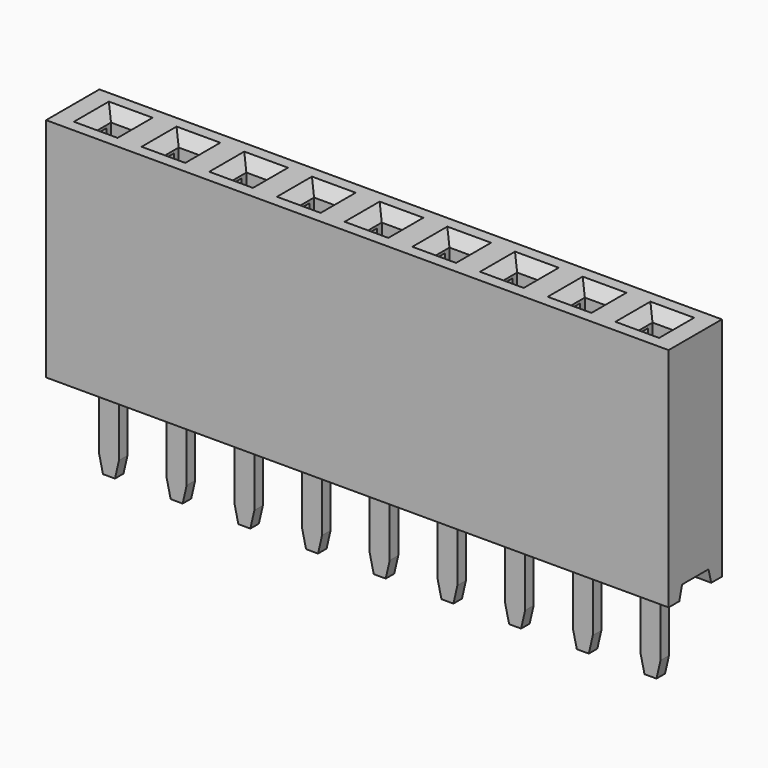
from build123d import *

# Parameters (mm, degrees)
SKETCH_W             = 3.04
SKETCH_H             = 2.5
PAD_DEPTH            = 8.5
SKETCH001_W          = 0.84
SKETCH001_H          = 0.84
POCKET_DEPTH         = 6.04
POCKET001_DEPTH      = 1.521
POCKET001_DEPTH_BACK = 1.521
SKETCH003_W          = 2
SKETCH003_H          = 0.4
POCKET002_DEPTH      = 8
CHAMFER_SIZE         = 0.4
ARRAY_X_COUNT        = 9
ARRAY_X_PITCH        = 2.54
PAD001_DEPTH         = 0.2
PAD001_DEPTH_BACK    = 0.2
ARRAY001_X_COUNT     = 9
ARRAY001_X_PITCH     = 2.54


with BuildPart() as fusion:
    # Sketch → Pad (new body)
    with BuildSketch(Plane.XY):
        Rectangle(SKETCH_W, SKETCH_H)
    extrude(amount=PAD_DEPTH)

    # Sketch001 → Pocket (cut)
    with BuildSketch(Plane.XY.offset(8.5)):
        Rectangle(SKETCH001_W, SKETCH001_H)
    extrude(amount=-POCKET_DEPTH, mode=Mode.SUBTRACT)

    # Sketch002 → Pocket001 (cut, two sides)
    with BuildSketch(Plane.YZ) as pocket001_sk:
        Polygon((-0.75, 0), (0.75, 0), (0.62, 0.5), (-0.62, 0.5), align=None)
    extrude(amount=-POCKET001_DEPTH, mode=Mode.SUBTRACT)
    extrude(pocket001_sk.sketch, amount=POCKET001_DEPTH_BACK, mode=Mode.SUBTRACT)

    # Sketch003 → Pocket002 (cut)
    with BuildSketch(Plane.XY):
        Rectangle(SKETCH003_W, SKETCH003_H)
    extrude(amount=POCKET002_DEPTH, mode=Mode.SUBTRACT)

    # Chamfer
    chamfer_edges = [fusion.edges().sort_by_distance(p)[0] for p in [
        (0, -0.42, 8.5),
        (0.42, 0, 8.5),
        (0, 0.42, 8.5),
        (-0.42, 0, 8.5),
    ]]
    chamfer(chamfer_edges, length=CHAMFER_SIZE)

    # Array X: Fusion ×9


with BuildPart() as fusion_1:
    add(fusion.part)
    with Locations(*[(i * ARRAY_X_PITCH, 0, 0) for i in range(1, ARRAY_X_COUNT)]):
        add(fusion.part)


with BuildPart() as array001:
    # Sketch004 → Pad001 (new body, two sides)
    with BuildSketch(Plane.XZ) as pad001_sk:
        with BuildLine():
            Line((-1, 0.5), (-0.375, 0.5))
            Line((-0.375, 0.5), (-0.375, -2.55))
            Line((-0.225, -3.2), (-0.375, -2.55))
            Line((-0.225, -3.2), (0.225, -3.2))
            Line((0.375, -2.55), (0.225, -3.2))
            Line((0.375, -2.55), (0.375, 0.5))
            Line((0.375, 0.5), (1, 0.5))
            Line((1, 0.5), (1, 3.45))
            Line((1, 3.45), (0.9, 3.75))
            Line((0.9, 3.75), (0.8, 7.5))
            ThreePointArc((0.8, 7.5), (0.410213, 7.329336), (0.25, 6.935138))
            Line((0.25, 6.935138), (0.25, 6.83828))
            ThreePointArc((0.25, 6.83828), (0.262641, 6.719153), (0.3, 6.605332))
            Line((0.399858, 2.860663), (0.3, 6.605332))
            ThreePointArc((-0.399858, 2.860663), (0, 2.45), (0.399858, 2.860663))
            Line((-0.399858, 2.860663), (-0.3, 6.605332))
            ThreePointArc((-0.3, 6.605332), (-0.262641, 6.719153), (-0.25, 6.83828))
            Line((-0.25, 6.935138), (-0.25, 6.83828))
            ThreePointArc((-0.25, 6.935138), (-0.410213, 7.329336), (-0.8, 7.5))
            Line((-0.9, 3.75), (-0.8, 7.5))
            Line((-1, 3.45), (-0.9, 3.75))
            Line((-1, 0.5), (-1, 3.45))
        make_face()
    extrude(amount=PAD001_DEPTH)
    extrude(pad001_sk.sketch, amount=-PAD001_DEPTH_BACK)

    # Array001 X: Array001 ×9


with BuildPart() as array001_1:
    add(array001.part)
    with Locations(*[(i * ARRAY001_X_PITCH, 0, 0) for i in range(1, ARRAY001_X_COUNT)]):
        add(array001.part)


solid = Compound([fusion_1.part, array001_1.part])
